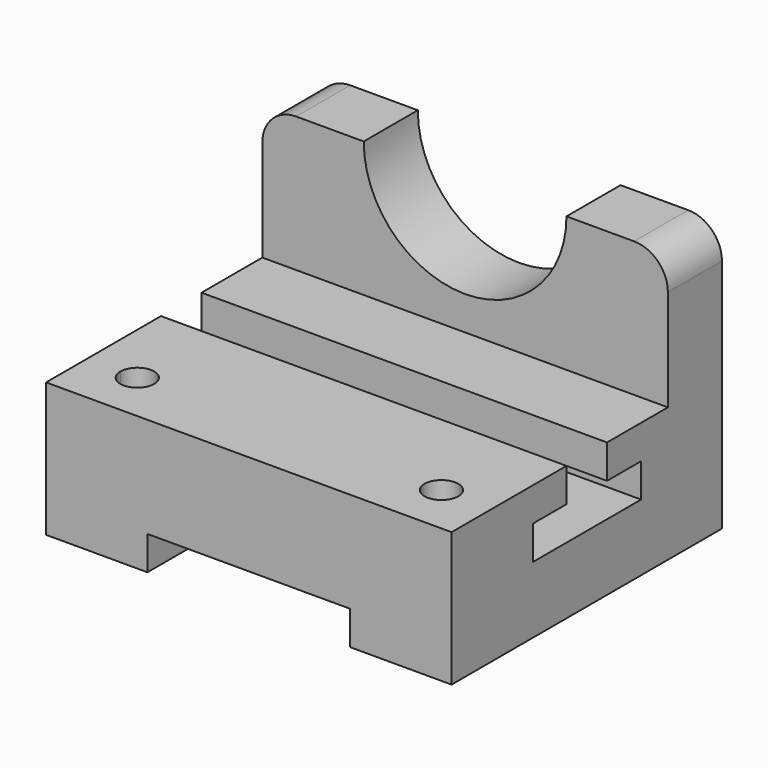
from build123d import *

# Parameters (mm, degrees)
F1_DEPTH  = 127
F3_DEPTH  = 152.4
F4_W      = 152.4
F4_H      = 25.4
F5_DEPTH  = 50.8
F8_DEPTH  = 25.4
F9_R      = 12.7
F10_R     = 6.35
F11_DEPTH = 50.447222


with BuildPart() as f1:
    # F0 (on Front) → F1 (new body)
    with BuildSketch(Plane.XZ):
        Polygon((0, 50.447222), (0, 0), (38.1, 0), (38.1, 12.7), (114.3, 12.7), (114.3, 0), (152.4, 0), (152.4, 50.447222), align=None)
    extrude(amount=-F1_DEPTH)

    # F2 (on face) → F3 (cut, through all)
    with BuildSketch(Plane.YZ.offset(152.4)):
        Polygon((73.025, 50.447222), (53.975, 50.447222), (53.975, 37.747222), (38.227, 37.747222), (38.227, 25.047222), (89.027, 25.047222), (89.027, 37.747222), (73.025, 37.747222), align=None)
    extrude(amount=-F3_DEPTH, mode=Mode.SUBTRACT)

    # F4 (on face) → F5 (join)
    with BuildSketch(Plane.XY.offset(50.447222)):
        with Locations((76.2, 114.3)):
            Rectangle(F4_W, F4_H)
    extrude(amount=F5_DEPTH)

    # F7 (on face) → F8 (cut, through all)
    with BuildSketch(Plane(origin=(0, 127, 0), x_dir=(-1, 0, 0), z_dir=(0, 1, 0))):
        with BuildLine():
            Line((-76.2, 101.247222), (-114.3, 101.247222))
            ThreePointArc((-114.3, 101.247222), (-76.2, 63.147222), (-38.1, 101.247222))
            Line((-38.1, 101.247222), (-76.2, 101.247222))
        make_face()
    extrude(amount=-F8_DEPTH, mode=Mode.SUBTRACT)

    # F9
    f9_edges = [f1.edges().sort_by_distance(p)[0] for p in [
        (152.4, 114.3, 101.247222),
        (0, 114.3, 101.247222),
    ]]
    fillet(f9_edges, radius=F9_R)

    # F10 (on face) → F11 (cut, through all)
    with BuildSketch(Plane.XY.offset(50.447222)):
        with BuildLine():
            Line((19.05, 19.05), (19.05, 12.7))
            ThreePointArc((19.05, 12.7), (23.540128, 14.559872), (25.4, 19.05))
            ThreePointArc((25.4, 19.05), (19.05, 25.4), (12.7, 19.05))
            Line((12.7, 19.05), (19.05, 19.05))
        make_face()
        with BuildLine():
            ThreePointArc((12.7, 19.05), (14.559872, 14.559872), (19.05, 12.7))
            Line((19.05, 12.7), (19.05, 19.05))
            Line((19.05, 19.05), (12.7, 19.05))
        make_face()
        with Locations((133.35, 19.05)):
            Circle(F10_R)
    extrude(amount=-F11_DEPTH, mode=Mode.SUBTRACT)


solid = f1.part
